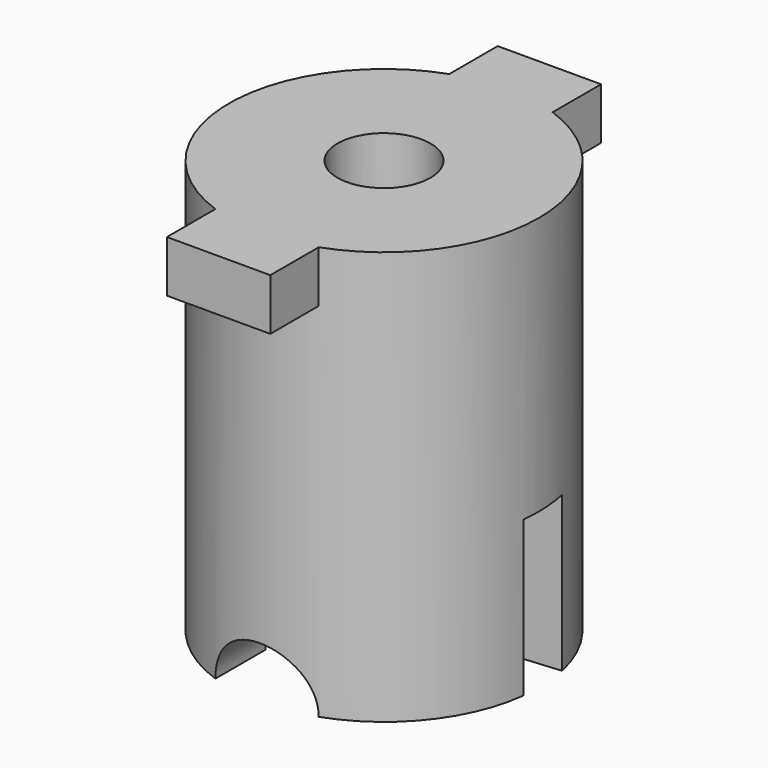
from build123d import *

# Parameters (mm, degrees)
F0_R     = 15
F1_DEPTH = 40
F2_W     = 10
F2_H     = 5
F3_DEPTH = 20
F4_DEPTH = 15
F5_R     = 5
F6_DEPTH = 25
F7_R     = 152.5
F7_R_2   = 147.5
F8_DEPTH = 15
F9_DEPTH = 25


with BuildPart() as f1:
    # F0 (on Top) → F1 (new body)
    with BuildSketch(Plane.XY):
        Circle(F0_R)
        with BuildLine():
            ThreePointArc((9.5, 0), (8.2990963363, -4.6233105022), (5, -8.0777472107))
            ThreePointArc((5, -8.0777472107), (0, -9.5), (-5, -8.0777472107))
            ThreePointArc((-5, -8.0777472107), (-4.6233105022, 8.2990963363), (9.5, 0))
        make_face(mode=Mode.SUBTRACT)
        with BuildLine():
            ThreePointArc((-4.5, 0), (0, 4.5), (4.5, 0))
            Line((4.5, 0), (5, 0))
            Line((5, 0), (5, -8.0777472107))
            ThreePointArc((5, -8.0777472107), (8.2990963363, -4.6233105022), (9.5, 0))
            ThreePointArc((9.5, 0), (-4.6233105022, 8.2990963363), (-5, -8.0777472107))
            Line((-5, -8.0777472107), (-5, 0))
            Line((-5, 0), (-4.5, 0))
        make_face()
        with BuildLine():
            Line((5, 0), (4.5, 0))
            ThreePointArc((4.5, 0), (0, -4.5), (-4.5, 0))
            Line((-4.5, 0), (-5, 0))
            Line((-5, 0), (-5, -8.0777472107))
            ThreePointArc((-5, -8.0777472107), (0, -9.5), (5, -8.0777472107))
            Line((5, -8.0777472107), (5, 0))
        make_face()
    extrude(amount=F1_DEPTH)

    # F2 (on Front) → F3 (join, symmetric)
    with BuildSketch(Plane.XZ):
        with Locations((0, 37.5)):
            Rectangle(F2_W, F2_H)
    extrude(amount=F3_DEPTH, both=True)

    # F0 (on Top) → F4 (cut)
    with BuildSketch(Plane.XY):
        with BuildLine():
            ThreePointArc((-4.5, 0), (0, 4.5), (4.5, 0))
            Line((4.5, 0), (5, 0))
            Line((5, 0), (5, -8.0777472107))
            ThreePointArc((5, -8.0777472107), (8.2990963363, -4.6233105022), (9.5, 0))
            ThreePointArc((9.5, 0), (-4.6233105022, 8.2990963363), (-5, -8.0777472107))
            Line((-5, -8.0777472107), (-5, 0))
            Line((-5, 0), (-4.5, 0))
        make_face()
        with BuildLine():
            Line((5, 0), (4.5, 0))
            ThreePointArc((4.5, 0), (0, -4.5), (-4.5, 0))
            Line((-4.5, 0), (-5, 0))
            Line((-5, 0), (-5, -8.0777472107))
            ThreePointArc((-5, -8.0777472107), (0, -9.5), (5, -8.0777472107))
            Line((5, -8.0777472107), (5, 0))
        make_face()
    extrude(amount=F4_DEPTH, mode=Mode.SUBTRACT)

    # F5 (on Front) → F6 (cut)
    with BuildSketch(Plane.XZ):
        Circle(F5_R)
    extrude(amount=F6_DEPTH, mode=Mode.SUBTRACT)

    # F7 (on Top) → F8 (cut)
    with BuildSketch(Plane.XY):
        with Locations((0, 150)):
            Circle(F7_R)
        with Locations((0, 150)):
            Circle(F7_R_2, mode=Mode.SUBTRACT)
    extrude(amount=F8_DEPTH, mode=Mode.SUBTRACT)

    # F9 (cut): a face of the model
    f9_faces = [f1.faces().sort_by_distance(p)[0] for p in [
        (0, 0, 35),
    ]]
    extrude(f9_faces, amount=-F9_DEPTH, mode=Mode.SUBTRACT)


solid = f1.part
